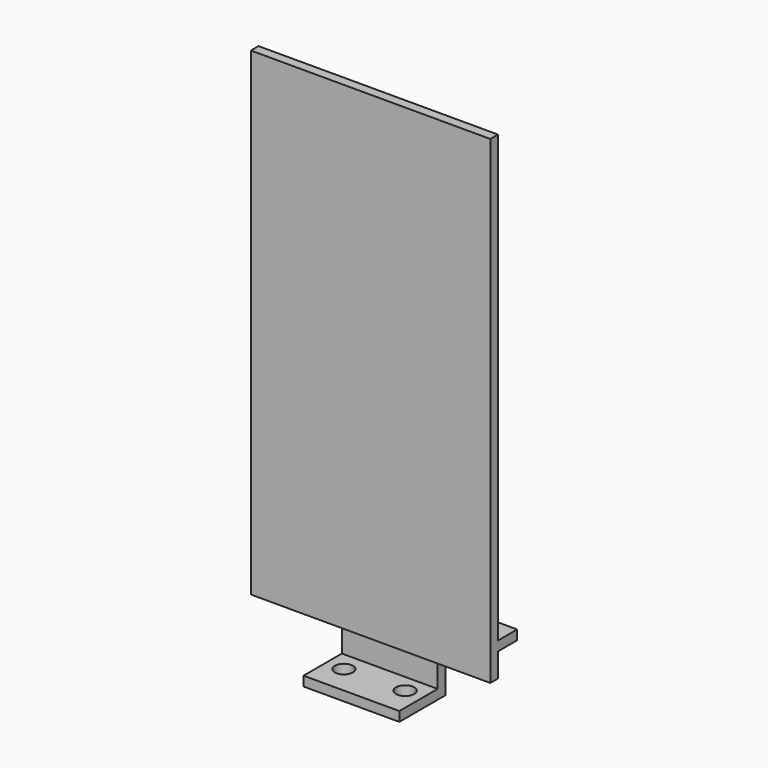
from build123d import *

# Parameters (mm, degrees)
F0_W      = 50
F0_H      = 100
F1_DEPTH  = 2
F2_W      = 50
F2_H      = 2
F3_DEPTH  = 5
F4_W      = 10
F4_H      = 2
F5_DEPTH  = 15
F6_W      = 10
F6_H      = 2
F7_DEPTH  = 15
F8_W      = 20
F8_H      = 2
F9_DEPTH  = 10
F10_R     = 1.893356
F11_DEPTH = 3
F12_R     = 1.90716
F13_DEPTH = 3
F14_W     = 2
F14_H     = 20
F15_DEPTH = 10


with BuildPart() as f1:
    # F0 (on Front) → F1 (new body)
    with BuildSketch(Plane.XZ):
        Rectangle(F0_W, F0_H)
    extrude(amount=F1_DEPTH)

    # F2 (on face) → F3 (join)
    with BuildSketch(Plane(origin=(0, 0, 0), x_dir=(-1, 0, 0), z_dir=(0, 1, 0))):
        with Locations((0, -44)):
            Rectangle(F2_W, F2_H)
    extrude(amount=F3_DEPTH)

    # F4 (on face) → F5 (join)
    with BuildSketch(Plane(origin=(0, 0, -45), x_dir=(1, 0, 0), z_dir=(0, 0, -1))):
        with Locations((5, -4)):
            Rectangle(F4_W, F4_H)
    extrude(amount=F5_DEPTH)

    # F6 (on face) → F7 (join)
    with BuildSketch(Plane(origin=(0, 0, -45), x_dir=(1, 0, 0), z_dir=(0, 0, -1))):
        with Locations((-5, -4)):
            Rectangle(F6_W, F6_H)
    extrude(amount=F7_DEPTH)

    # F8 (on face) → F9 (join)
    with BuildSketch(Plane.XZ.offset(-3)):
        with Locations((0, -59)):
            Rectangle(F8_W, F8_H)
    extrude(amount=F9_DEPTH)

    # F10 (on face) → F11 (cut)
    with BuildSketch(Plane(origin=(0, 0, -60), x_dir=(1, 0, 0), z_dir=(0, 0, -1))):
        with Locations((-6.311274, 1.08402)):
            Circle(F10_R)
    extrude(amount=-F11_DEPTH, mode=Mode.SUBTRACT)

    # F12 (on face) → F13 (cut)
    with BuildSketch(Plane(origin=(0, 0, -60), x_dir=(1, 0, 0), z_dir=(0, 0, -1))):
        with Locations((6.244087, 0.790448)):
            Circle(F12_R)
    extrude(amount=-F13_DEPTH, mode=Mode.SUBTRACT)

    # F14 (on face) → F15 (join)
    with BuildSketch(Plane(origin=(0, 0, 0), x_dir=(-1, 0, 0), z_dir=(0, 1, 0))):
        Rectangle(F14_W, F14_H)
    extrude(amount=F15_DEPTH)


solid = f1.part
